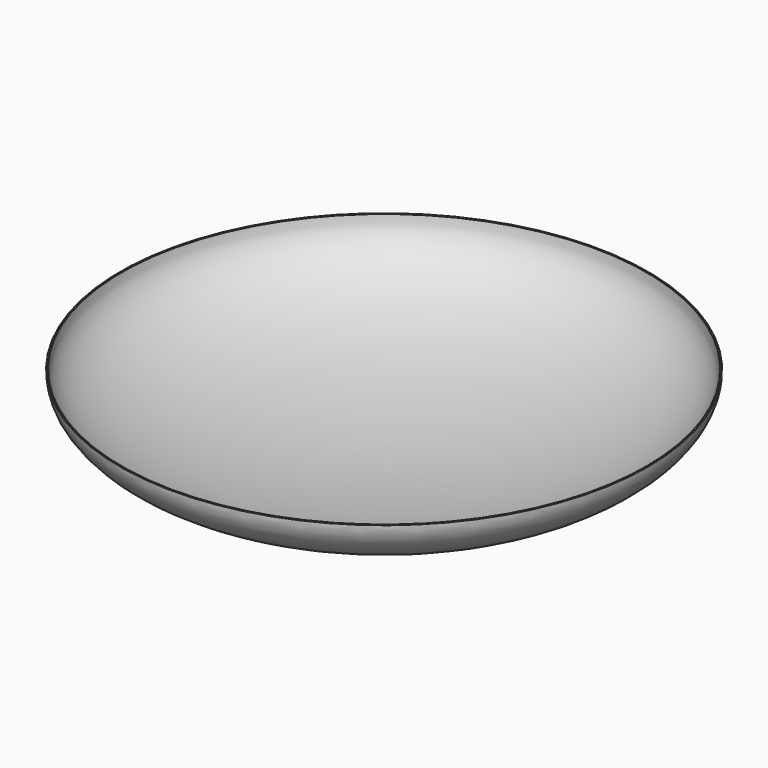
from build123d import *

# Parameters (mm, degrees)
F2_T = -0.0254


with BuildPart() as f1:
    # F0 (on Front) → F1 (revolve)
    with BuildSketch(Plane.XZ):
        with BuildLine():
            Line((0, 0), (0, -1.5389750479))
            add(Edge.make_bspline(
                [(0, -1.5389750479), (4.5912400819, -1.5389750479), (4.5912400819, 0)],
                knots=[4.7123889804, 4.7123889804, 4.7123889804, 6.2831853072, 6.2831853072, 6.2831853072], degree=2, weights=[1, 0.7071067812, 1]))
            Line((4.5912400819, 0), (0, 0))
        make_face()
    revolve(axis=Axis((0, 0, -0.7694875239), (0, 0, -1)))

    # F2
    f2_openings = [f1.faces().sort_by_distance(p)[0] for p in [
        (0, 0, 0),
    ]]
    offset(amount=F2_T, openings=f2_openings)


solid = f1.part
